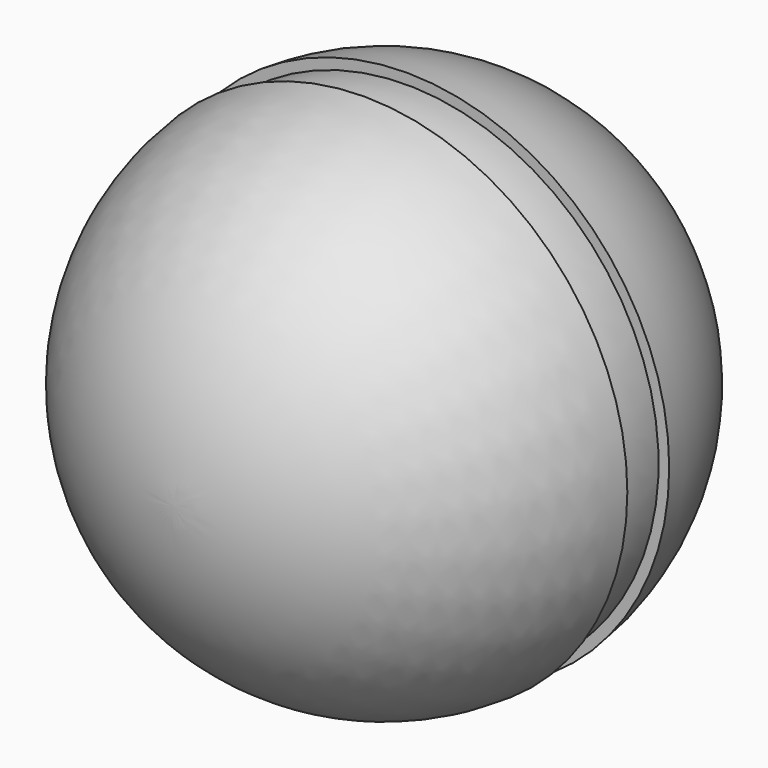
from build123d import *


with BuildPart() as f1:
    # F0 (on Top) → F1 (revolve)
    with BuildSketch(Plane.XY):
        with BuildLine():
            Line((0, -25), (0, 25))
            ThreePointArc((0, 25), (-16.704576, 18.599923), (-24.856306, 2.676571))
            Line((-24.856306, 2.676571), (-23.850282, 2.676571))
            ThreePointArc((-23.850282, 2.676571), (-23.999343, 0.177537), (-23.88727, -2.323429))
            Line((-23.88727, -2.323429), (-24.891799, -2.323429))
            ThreePointArc((-24.891799, -2.323429), (-16.836185, -18.480878), (0, -25))
        make_face()
    revolve(axis=Axis((0, 0, 0), (0, -1, 0)))


solid = f1.part
